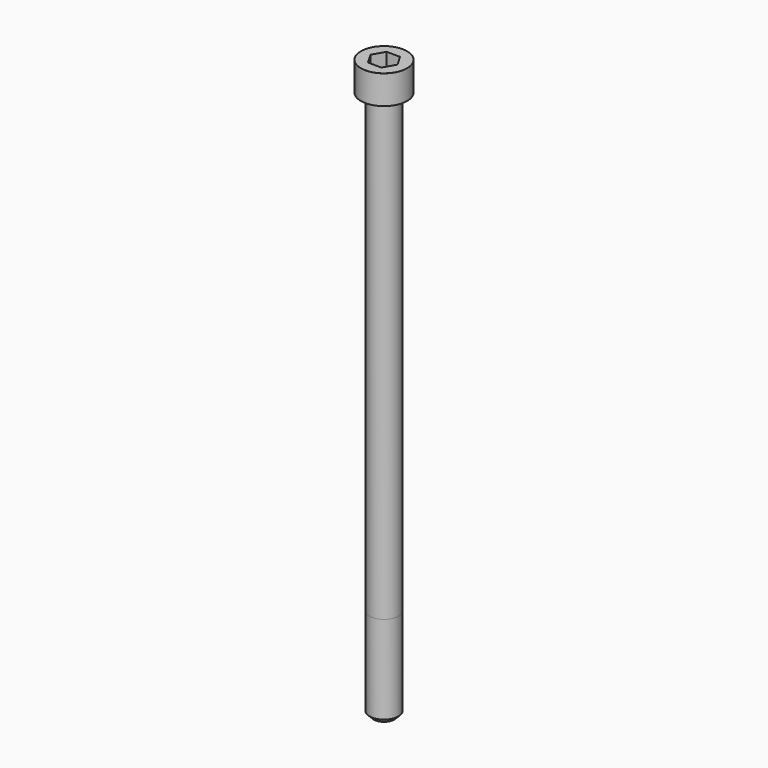
from build123d import *

# Parameters (mm, degrees)
POCKET_DEPTH = 8.07


with BuildPart() as part:
    # Sketch → Revolve (revolve)
    with BuildSketch(Plane.YZ):
        with BuildLine():
            Line((4.999, 0), (8, 0))
            Line((8, 0), (8, 9.97229))
            ThreePointArc((8, 9.97229), (7.991884, 9.991884), (7.97229, 10))
            Line((7.97229, 10), (0, 10))
            Line((0, -190), (0, 10))
            Line((3.5, -190), (0, -190))
            Line((5, -188.5), (3.5, -190))
            Line((5, -158), (5, -188.5))
            Line((4.999, 0), (5, -158))
        make_face()
    revolve(axis=Axis((0, 0, 0), (0, 0, 1)))

    # Sketch001 → Pocket (cut)
    with BuildSketch(Plane.XY.offset(10)):
        Polygon((4.659217, 0), (2.329608, 4.035), (-2.329608, 4.035), (-4.659217, 0), (-2.329608, -4.035), (2.329608, -4.035), align=None)
    extrude(amount=-POCKET_DEPTH, mode=Mode.SUBTRACT)


solid = part.part
